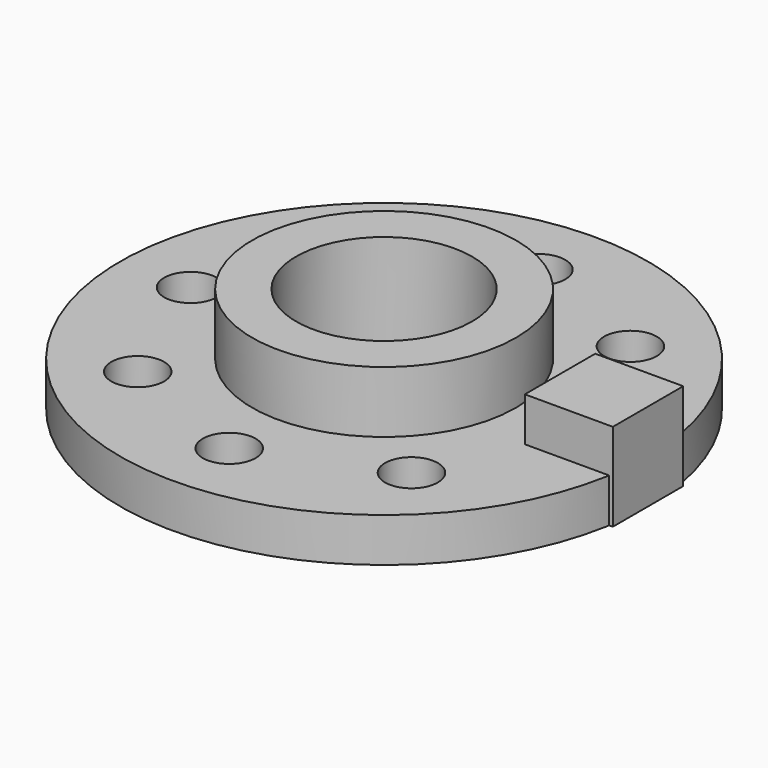
from build123d import *

# Parameters (mm, degrees)
BOX_W             = 10
BOX_H             = 10
BOX_DEPTH         = 10
CYLINDER003_R     = 3
CYLINDER003_DEPTH = 10
ARRAY_COUNT       = 8
CYLINDER002_R     = 10
CYLINDER002_DEPTH = 30
CYLINDER001_R     = 15
CYLINDER001_DEPTH = 12
CYLINDER_R        = 30
CYLINDER_DEPTH    = 5


with BuildPart() as cub:
    # Box → Box (new body)
    with BuildSketch(Plane(origin=(20, -5, 0), x_dir=(1, 0, 0), z_dir=(0, 0, 1))):
        with Locations((5, 5)):
            Rectangle(BOX_W, BOX_H)
    extrude(amount=BOX_DEPTH)


with BuildPart() as array:
    # Cylinder003 → Cylinder003 (new body)
    with BuildSketch(Plane(origin=(22, 0, -1), x_dir=(1, 0, 0), z_dir=(0, 0, 1))):
        Circle(CYLINDER003_R)
    extrude(amount=CYLINDER003_DEPTH)

    # Array: Array ×8 about axis
    array_axis = Axis((0, 0, 0), (0, 0, 1))


with BuildPart() as array_1:
    add(array.part)
    for i in range(1, ARRAY_COUNT):
        add(array.part.rotate(array_axis, i * 360 / ARRAY_COUNT))


with BuildPart() as tub_interior:
    # Cylinder002 → Cylinder002 (new body)
    with BuildSketch(Plane.XY.offset(-1)):
        Circle(CYLINDER002_R)
    extrude(amount=CYLINDER002_DEPTH)


with BuildPart() as tub_exterior:
    # Cylinder001 → Cylinder001 (new body)
    with BuildSketch(Plane.XY):
        Circle(CYLINDER001_R)
    extrude(amount=CYLINDER001_DEPTH)


with BuildPart() as cut001:
    # Cylinder → Cylinder (new body)
    with BuildSketch(Plane.XY):
        Circle(CYLINDER_R)
    extrude(amount=CYLINDER_DEPTH)

    # Fusion: union tub exterior
    add(tub_exterior.part)

    # Cut: cut tub interior
    add(tub_interior.part, mode=Mode.SUBTRACT)

    # Cut001: cut Array
    add(array_1.part, mode=Mode.SUBTRACT)


solid = Compound([cub.part, cut001.part])
